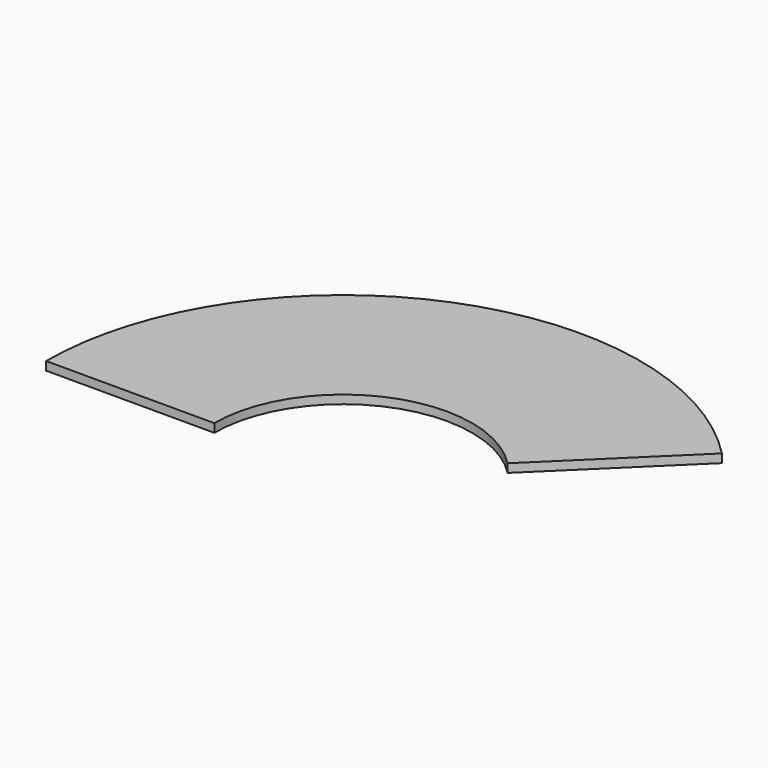
from build123d import *

# Parameters (mm, degrees)
F1_DEPTH = 3
F3_DEPTH = 4


with BuildPart() as f1:
    # F0 (on Top) → F1 (new body)
    with BuildSketch(Plane.XY):
        with BuildLine():
            Line((32.444928, 31.685156), (74.762845, 73.012102))
            ThreePointArc((74.762845, 73.012102), (-39.417843, 96.780595), (-104.5, 0))
            Line((-104.5, 0), (-45.35, 0))
            ThreePointArc((-45.35, 0), (-17.106212, 42), (32.444928, 31.685156))
        make_face()
    extrude(amount=F1_DEPTH)

    # F2 (on face) → F3 (join)
    with BuildSketch(Plane.XY.offset(3)):
        Polygon((-24.734859, 59.074202), (-24.153877, 59.303767), (-24.908327, 61.156129), (-25.46983, 60.93426), align=None)
        Polygon((-24.908327, 61.156129), (-24.153877, 59.303767), (-22.874801, 59.809172), (-21.014742, 60.544143), (-21.749713, 62.404202), (-23.609771, 61.669231), align=None)
        Polygon((-30.247139, 73.024641), (-29.812251, 73.19648), (-30.566701, 75.048842), (-30.98211, 74.8847), align=None)
        Polygon((-30.566701, 75.048842), (-29.812251, 73.19648), (-28.387081, 73.759612), (-26.527022, 74.494583), (-27.261993, 76.354641), (-29.122051, 75.619671), align=None)
        Polygon((-55.841003, 34.054731), (-54.724372, 35.713989), (-56.383629, 36.83062), (-57.50026, 35.171363), align=None)
        Polygon((-68.285433, 42.429465), (-67.168802, 44.088722), (-68.828059, 45.205353), (-69.94469, 43.546096), align=None)
        Polygon((-68.828059, 45.205353), (-67.168802, 44.088722), (-66.052171, 45.747979), (-67.711428, 46.86461), align=None)
        Polygon((-56.383629, 36.83062), (-54.724372, 35.713989), (-53.60774, 37.373246), (-55.266998, 38.489877), align=None)
        Polygon((-56.957634, 32.395474), (-55.841003, 34.054731), (-57.50026, 35.171363), (-58.616891, 33.512105), align=None)
        Polygon((-69.402064, 40.770207), (-68.285433, 42.429465), (-69.94469, 43.546096), (-71.061321, 41.886838), align=None)
        Polygon((22.776784, 77.747336), (20.827569, 78.195176), (20.379729, 76.245961), (22.328944, 75.798121), align=None)
        Polygon((19.417982, 63.128223), (17.468767, 63.576063), (17.020927, 61.626848), (18.970142, 61.179008), align=None)
    extrude(amount=-F3_DEPTH)


solid = f1.part
